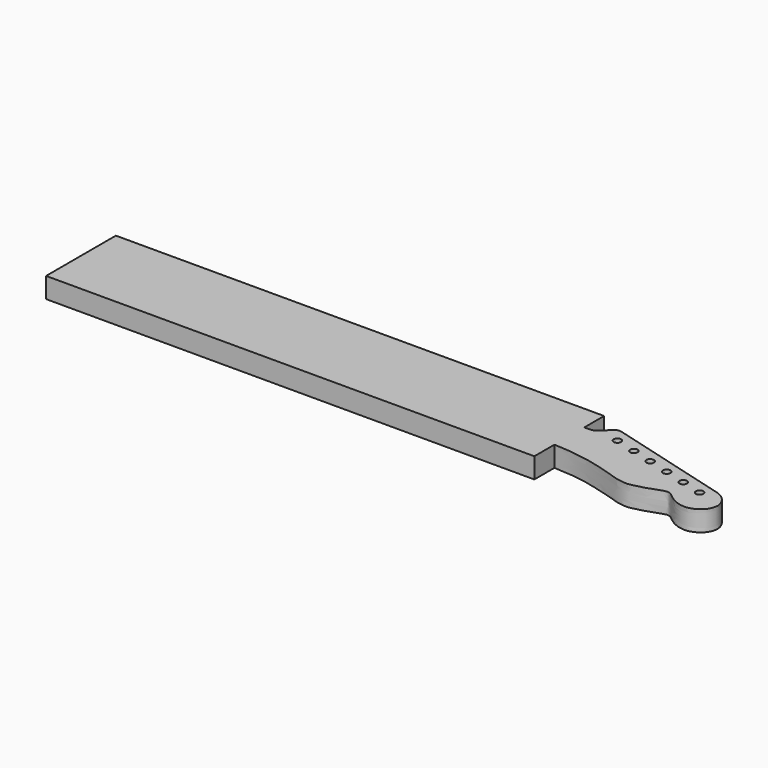
from build123d import *

# Parameters (mm, degrees)
F1_W      = 762
F1_H      = 101.6
F2_DEPTH  = 23.8125
F3_R      = 4.365625
F2_FACE_W = 762
F2_FACE_H = 101.6
F4_DEPTH  = 23.8135


with BuildPart() as f2:
    # F1 (on Top) → F2 (new body)
    with BuildSketch(Plane.XY):
        with Locations((139.4210623833, 0)):
            Rectangle(F1_W, F1_H)
    extrude(amount=-F2_DEPTH)

    # F3 (on Top) + F2_face (on face) → F4 (cut, through all)
    with BuildSketch(Plane.XY):
        with BuildLine():
            Line((327.1068770885, 50.8), (327.1068770885, 21.8977257609))
            add(Edge.make_bspline(
                [(327.1068770885, 21.8977257609), (328.3755791597, 22.0341216457), (333.2752182992, 22.0181172764), (336.2683457979, 22.0781041305), (339.5211605184, 23.7196902271), (341.8141105212, 25.8420464061), (345.560540975, 29.0594898472), (347.9212265564, 31.7418984335), (350.8521319073, 34.6514827477), (352.7785456091, 35.893800344), (354.626175997, 36.6403228719), (356.9966157679, 37.0643012496), (359.9472536313, 36.178723734), (361.0759986762, 35.8622595668)],
                knots=[0.0603236957, 0.0603236957, 0.0603236957, 0.0603236957, 0.1722493633, 0.2555568895, 0.3389448066, 0.4214151276, 0.5220760426, 0.6111317796, 0.7031944558, 0.7723584699, 0.8349524532, 0.9062003923, 1, 1, 1, 1], degree=3))
            Line((361.0759986762, 35.8622595668), (503.0485380888, -3.2277181745))
            add(Edge.make_bspline(
                [(503.0485380888, -3.2277181745), (504.1657573068, -3.7203060891), (506.3717906058, -4.6929579419), (509.2278286925, -6.535029535), (511.2108971555, -8.2404671793), (513.5844003254, -10.5897385496), (514.8008285797, -12.5252315139), (515.7481080454, -14.1414184699), (517.0475329375, -16.5980950912), (517.9701713375, -20.3507542333), (518.4592657753, -23.0703442396), (517.8255383124, -25.467753776), (517.3033428708, -28.8165838005), (515.6474746918, -31.7893880615), (513.7359700753, -35.0536005194), (508.8961934509, -38.8229679748), (506.0759952783, -40.7171974817), (500.0137438387, -42.952135176), (494.9211553077, -43.1292310719), (489.5410944392, -42.5420874063), (482.7160063107, -40.2182440912), (477.1094829828, -36.7823560204), (471.9977250564, -32.5789125723), (469.7446220357, -30.9101218132), (466.9225977673, -29.6065222301), (463.9966520894, -29.7250048782), (459.5338680021, -30.9972845062), (451.9120704765, -33.8795058004), (445.9389116089, -35.8823596927), (438.830044964, -38.0068499738), (434.7262194274, -38.7681717134), (428.8654503526, -40.4091595223), (423.2293828733, -40.3740745579), (417.5666039339, -39.4846346883), (414.2150455876, -38.8699992263), (409.8092452668, -37.6678443433), (401.4480083391, -35.1011190112), (388.4880949666, -30.7522999871), (378.7455774288, -28.6692707009), (366.3408776472, -25.412976893), (359.7236594235, -24.8168849109), (350.9746016408, -23.2008404114), (341.8718686474, -22.219764461), (332.3122961095, -21.7528947604), (327.1068770885, -21.5091731632)],
                knots=[0, 0, 0, 0, 0.0199027936, 0.0388526525, 0.0558047007, 0.074697829, 0.0903379562, 0.1042912493, 0.1215655254, 0.1421345811, 0.1592377538, 0.1753548526, 0.1943563977, 0.2133014961, 0.2336815602, 0.2589385292, 0.2786370315, 0.3044711021, 0.3280479825, 0.3520200885, 0.379690428, 0.4069320315, 0.4332958677, 0.4507606764, 0.4684168149, 0.4857230256, 0.508034474, 0.5376320065, 0.5644990294, 0.5922566155, 0.6137594518, 0.6388936303, 0.6639909093, 0.6886179143, 0.7075965151, 0.7290655802, 0.7599387204, 0.7983199112, 0.832087071, 0.8686236583, 0.8957384699, 0.9258519444, 0.9580751142, 0.9959516923, 0.9959516923, 0.9959516923, 0.9959516923], degree=3))
            Line((327.1068770885, -21.5091731632), (327.1068770885, -50.8))
            Line((327.1068770885, -50.8), (520.4210623833, -50.8))
            Line((520.4210623833, -50.8), (520.4210623833, 50.8))
            Line((520.4210623833, 50.8), (327.1068770885, 50.8))
        make_face()
        with Locations((489.1629357338, -12.6486942172)):
            Circle(F3_R)
        with Locations((464.7318375067, -6.0313884352)):
            Circle(F3_R)
        with Locations((440.1137821084, 0.6365557895)):
            Circle(F3_R)
        with Locations((415.5289160746, 7.2955104809)):
            Circle(F3_R)
        with Locations((391.2572402954, 13.8696357608)):
            Circle(F3_R)
        with Locations((366.9001932867, 20.4668843373)):
            Circle(F3_R)
    with BuildSketch(Plane(origin=(139.4210623833, 0, -23.8125), x_dir=(1, 0, 0), z_dir=(0, 0, -1))):
        Rectangle(F2_FACE_W, F2_FACE_H)
    extrude(amount=-F4_DEPTH, dir=(0, 0, 1), mode=Mode.SUBTRACT)


solid = f2.part
